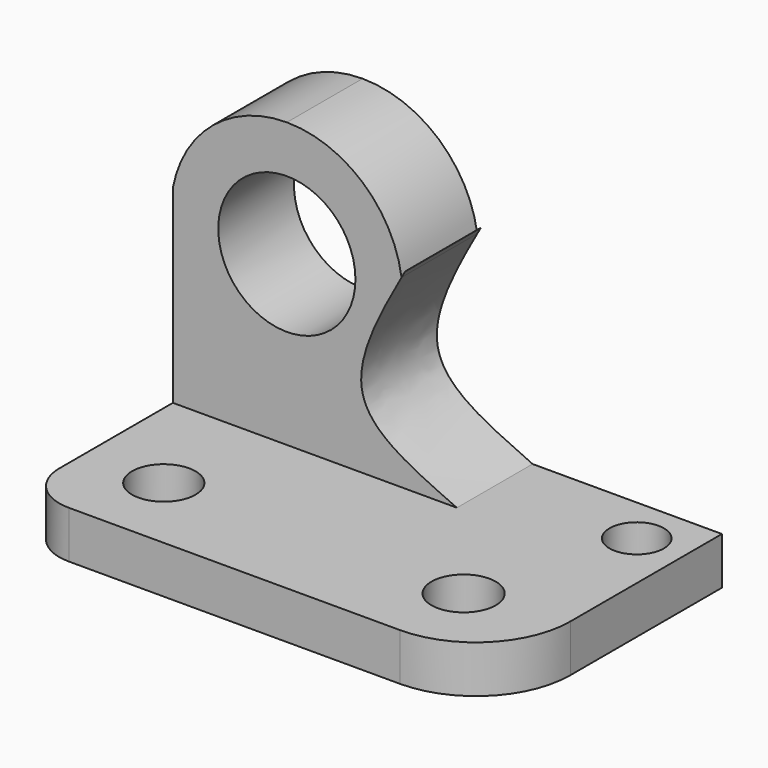
from build123d import *

# Parameters (mm, degrees)
F0_W      = 63.5
F0_H      = 6.35
F1_DEPTH  = 38.1
F2_W      = 38.1
F2_H      = 12.7
F3_DEPTH  = 38.1
F5_DEPTH  = 25.4
F7_DEPTH  = 25.4
F9_DEPTH  = 50.8
F10_R     = 9.2019956047
F11_DEPTH = 50.8
F13_DEPTH = 25.4
F14_R     = 3.6534256471
F14_R_2   = 4.3090453785
F14_R_3   = 4.2605889861
F15_DEPTH = 50.8


with BuildPart() as f1:
    # F0 (on Front) → F1 (new body)
    with BuildSketch(Plane.XZ):
        with Locations((34.6830364735, 29.8258449787)):
            Rectangle(F0_W, F0_H)
    extrude(amount=-F1_DEPTH)

    # F2 (on face) → F3 (join)
    with BuildSketch(Plane.XY.offset(33.0008449787)):
        with Locations((21.9830364735, 31.75)):
            Rectangle(F2_W, F2_H)
    extrude(amount=F3_DEPTH)

    # F4 (on face) → F5 (cut)
    with BuildSketch(Plane.XZ.offset(-25.4)):
        with BuildLine():
            Line((41.0330364735, 33.0008449787), (41.0330364735, 71.1008449787))
            add(Edge.make_bspline(
                [(41.0330364735, 71.1008449787), (34.6830364735, 58.7689659775), (21.6218736771, 41.5789247184), (34.6830364735, 35.8656333736), (41.0330364735, 33.0008449787)],
                knots=[0, 0, 0, 0, 0.5831439373, 1, 1, 1, 1], degree=3))
        make_face()
    extrude(amount=-F5_DEPTH, mode=Mode.SUBTRACT)

    # F6 (on face) → F7 (cut)
    with BuildSketch(Plane.XZ.offset(-25.4)):
        with BuildLine():
            ThreePointArc((2.9330364735, 58.4008449787), (8.2837260639, 67.5116832857), (18.2212897537, 71.1008449787))
            Line((18.2212897537, 71.1008449787), (2.9330364735, 71.1008449787))
            Line((2.9330364735, 71.1008449787), (2.9330364735, 58.4008449787))
        make_face()
        with BuildLine():
            ThreePointArc((18.2212897537, 71.1008449787), (28.3949060662, 67.3115913339), (33.6109061765, 57.7903385325))
            Line((33.6109061765, 57.7903385325), (41.0330364735, 71.1008449787))
            Line((41.0330364735, 71.1008449787), (18.2212897537, 71.1008449787))
        make_face()
    extrude(amount=-F7_DEPTH, mode=Mode.SUBTRACT)

    # F8 (on Front) → F9 (cut)
    with BuildSketch(Plane.XZ):
        Polygon((43.5892567039, 74.0717500448), (31.4465388656, 70.335522294), (35.1827591658, 53.8338758051), (52.0755703269, 57.6586616548), align=None)
    extrude(amount=-F9_DEPTH, mode=Mode.SUBTRACT)

    # F10 (on Front) → F11 (cut)
    with BuildSketch(Plane.XZ):
        with Locations((18.2212897537, 55.548849374)):
            Circle(F10_R)
    extrude(amount=-F11_DEPTH, mode=Mode.SUBTRACT)

    # F12 (on face) → F13 (cut)
    with BuildSketch(Plane.XY.offset(33.0008449787)):
        with BuildLine():
            ThreePointArc((9.2830364735, 0), (4.792908413, 1.8598719395), (2.9330364735, 6.35))
            Line((2.9330364735, 6.35), (2.9330364735, 0))
            Line((2.9330364735, 0), (9.2830364735, 0))
        make_face()
        with BuildLine():
            Line((66.4330364735, 0), (66.4330364735, 12.7))
            ThreePointArc((66.4330364735, 12.7), (62.7132925946, 3.7197438789), (53.7330364735, 0))
            Line((53.7330364735, 0), (66.4330364735, 0))
        make_face()
    extrude(amount=-F13_DEPTH, mode=Mode.SUBTRACT)

    # F14 (on Top) → F15 (cut)
    with BuildSketch(Plane.XY):
        with Locations((60.0830364735, 31.75)):
            Circle(F14_R)
        with Locations((53.7330364735, 10.6590453785)):
            Circle(F14_R_2)
        with Locations((13.5436254597, 10.6105889861)):
            Circle(F14_R_3)
    extrude(amount=F15_DEPTH, mode=Mode.SUBTRACT)


solid = f1.part
